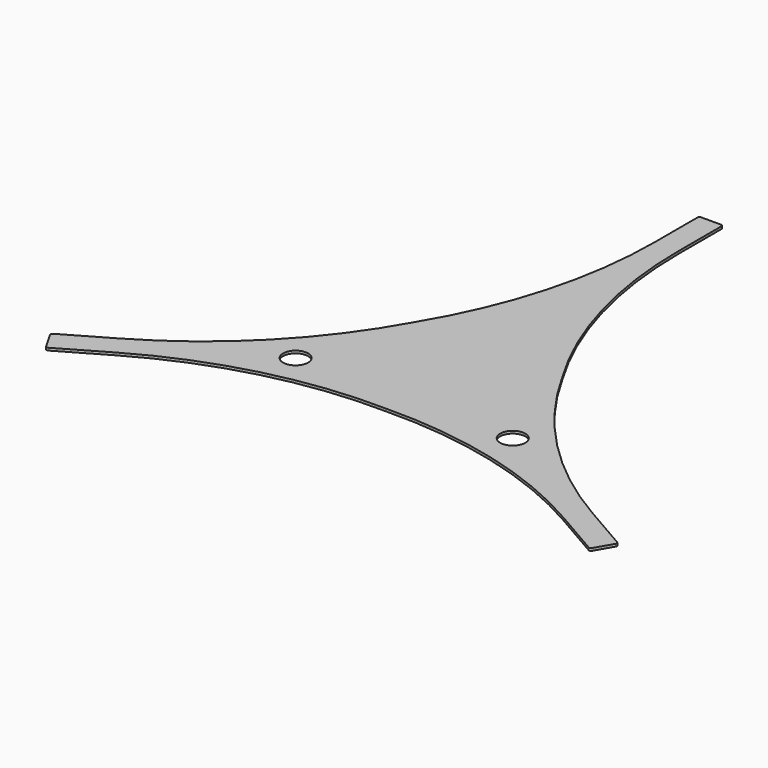
from build123d import *

# Parameters (mm, degrees)
PAD038_DEPTH               = 3
PAD038_MIRRORED044_2_DEPTH = 3
POLARPATTERN012_COUNT      = 3
SKETCH179_R                = 15
POCKET144_DEPTH            = 5


with BuildPart() as part:
    # Sketch180 → Pad038 (new body)
    with BuildSketch(Plane.XY):
        with BuildLine():
            Line((14.3, 317.6), (14.3, 381.5))
            ThreePointArc((14.3, 381.5), (13.567767, 383.267767), (11.8, 384))
            Line((11.8, 384), (0, 384))
            Line((0, 384), (0, 0))
            Line((0, 0), (88.487966, 51.088551))
            ThreePointArc((14.3, 317.6), (33.193003, 179.277725), (88.487966, 51.088551))
        make_face()
    pad038 = extrude(amount=PAD038_DEPTH)

    # Sketch180 Mirrored044 2 → Pad038 Mirrored044 2 (add)
    with BuildSketch(Plane(origin=(0, 0, 0), x_dir=(-1, 0, 0), z_dir=(0, 0, -1))):
        with BuildLine():
            Line((14.3, 317.6), (14.3, 381.5))
            ThreePointArc((14.3, 381.5), (13.567767, 383.267767), (11.8, 384))
            Line((11.8, 384), (0, 384))
            Line((0, 384), (0, 0))
            Line((0, 0), (88.487966, 51.088551))
            ThreePointArc((14.3, 317.6), (33.193003, 179.277725), (88.487966, 51.088551))
        make_face()
    pad038_mirrored044_2 = extrude(amount=-PAD038_MIRRORED044_2_DEPTH)

    # PolarPattern012: Pad038, Pad038 Mirrored044 2 ×3 about axis
    polarpattern012_axis = Axis((0, 0, 0), (0, 0, 1))
    for i in range(1, POLARPATTERN012_COUNT):
        add(pad038.rotate(polarpattern012_axis, i * 360 / POLARPATTERN012_COUNT))
        add(pad038_mirrored044_2.rotate(polarpattern012_axis, i * 360 / POLARPATTERN012_COUNT))

    # Sketch179 → Pocket144 (cut)
    with BuildSketch(Plane.XY):
        with Locations((129.903811, -75)):
            Circle(SKETCH179_R)
        with Locations((-129.903811, -75)):
            Circle(SKETCH179_R)
    extrude(amount=POCKET144_DEPTH, mode=Mode.SUBTRACT)


solid = part.part
